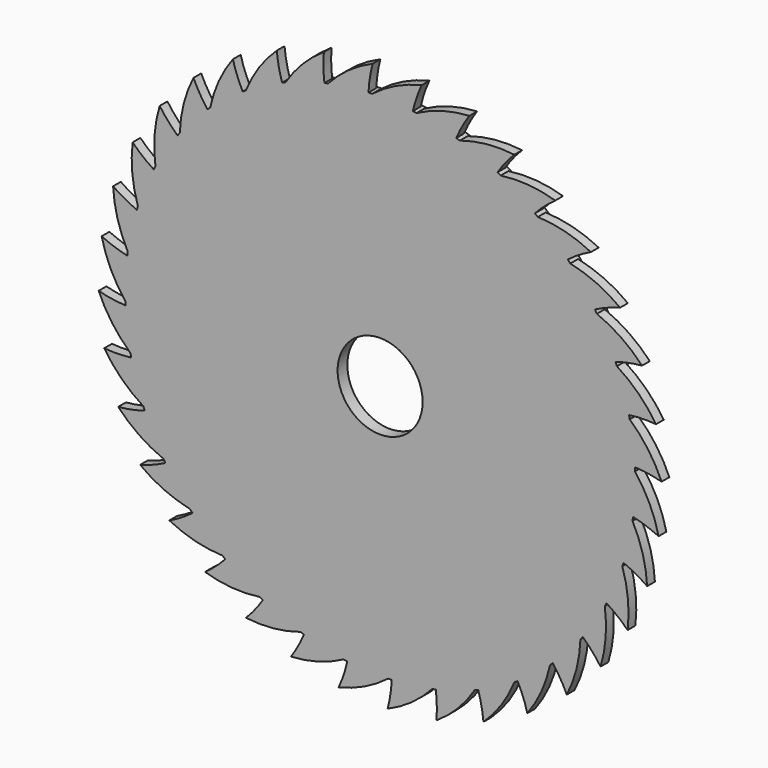
from build123d import *

# Parameters (mm, degrees)
F0_R     = 105
F1_DEPTH = 2.5
F3_DEPTH = 4
F4_COUNT = 36
F5_R     = 17.5
F6_DEPTH = 5.001


with BuildPart() as f1:
    # F0 (on Front) → F1 (new body, symmetric)
    with BuildSketch(Plane.XZ):
        Circle(F0_R)
    extrude(amount=F1_DEPTH, both=True)

    # F2 (on face) → F3 (join)
    with BuildSketch(Plane.XZ.offset(2.5)):
        with BuildLine():
            ThreePointArc((55.2742034197, 101.918682456), (43.9345614476, 102.0560942455), (32.8343328669, 99.7341796236))
            ThreePointArc((32.8343328669, 99.7341796236), (40.6961516971, 96.7926817329), (48.2978820486, 93.2325833044))
            ThreePointArc((48.2978820486, 93.2325833044), (51.548658511, 97.7662902282), (55.2742034197, 101.918682456))
        make_face()
    extrude(amount=-F3_DEPTH)

    # F4: F1 ×36 about axis
    f4_axis = Axis((0, 2.5, 0), (0, -1, 0))


with BuildPart() as f1_1:
    add(f1.part)
    for i in range(1, F4_COUNT):
        add(f1.part.rotate(f4_axis, i * 360 / F4_COUNT))

    # F5 (on face) → F6 (cut, through all)
    with BuildSketch(Plane.XZ.offset(2.5)):
        Circle(F5_R)
    extrude(amount=-F6_DEPTH, mode=Mode.SUBTRACT)


solid = f1_1.part
